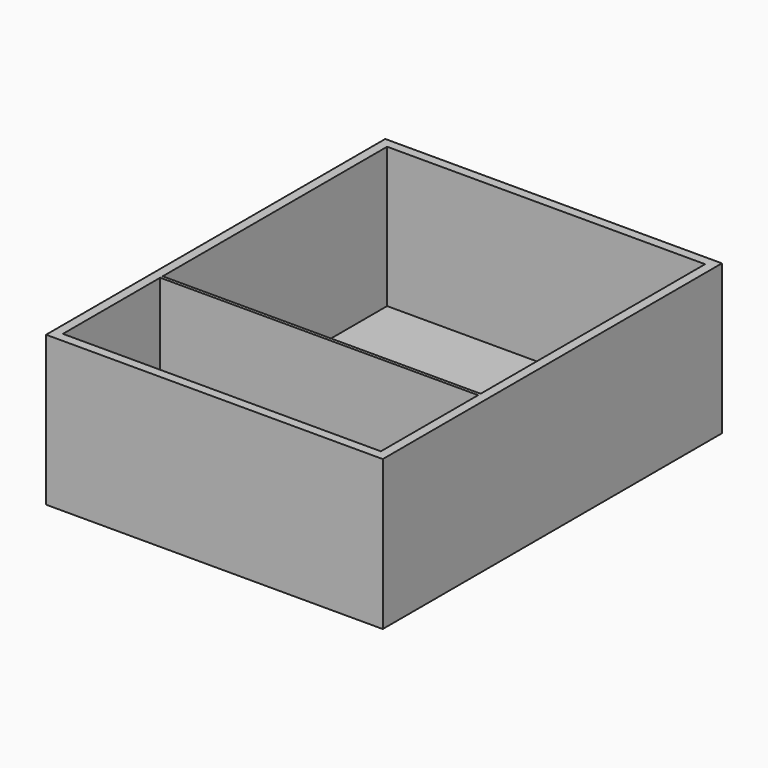
from build123d import *

# Parameters (mm, degrees)
SKETCH_W        = 54
SKETCH_H        = 68
PAD_DEPTH       = 24
SKETCH001_W     = 51
SKETCH001_H     = 45
POCKET_DEPTH    = 22.5
SKETCH002_W     = 51
SKETCH002_H     = 19.5
POCKET001_DEPTH = 18.5


with BuildPart() as part:
    # Sketch → Pad (new body)
    with BuildSketch(Plane.XY):
        with Locations((27, 34)):
            Rectangle(SKETCH_W, SKETCH_H)
    extrude(amount=PAD_DEPTH)

    # Sketch001 (on Face6 of Pad) → Pocket (cut)
    with BuildSketch(Plane.XY.offset(24)):
        with Locations((27, 44)):
            Rectangle(SKETCH001_W, SKETCH001_H)
    extrude(amount=-POCKET_DEPTH, mode=Mode.SUBTRACT)

    # Sketch002 (on Face5 of Pocket) → Pocket001 (cut)
    with BuildSketch(Plane.XY.offset(24)):
        with Locations((27, 11.25)):
            Rectangle(SKETCH002_W, SKETCH002_H)
    extrude(amount=-POCKET001_DEPTH, mode=Mode.SUBTRACT)


solid = part.part
